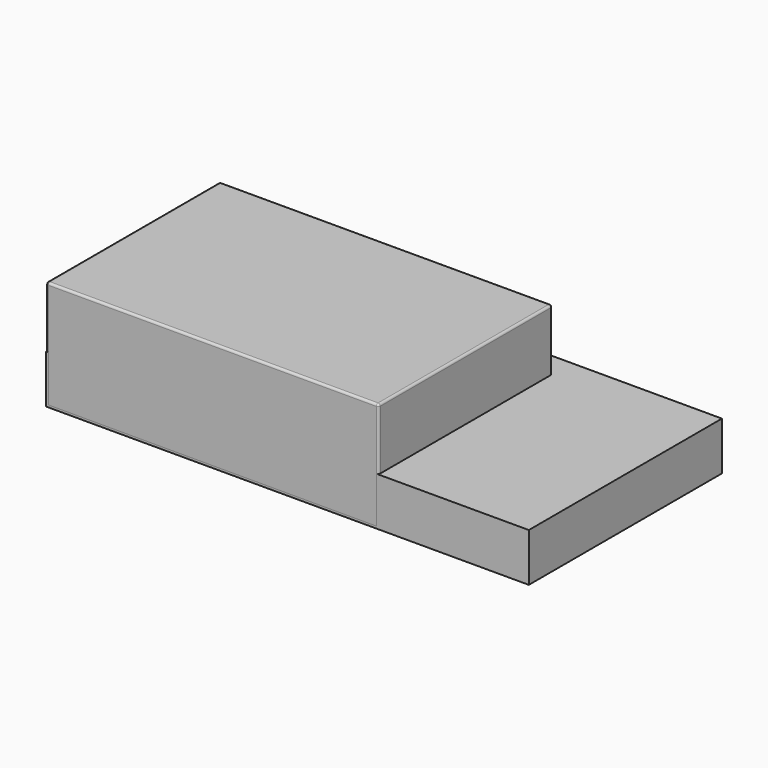
from build123d import *

# Parameters (mm, degrees)
BOX_W        = 440
BOX_H        = 220
BOX_DEPTH    = 44
BOX001_W     = 283
BOX001_H     = 178
BOX001_DEPTH = 44
BOX003_W     = 283
BOX003_H     = 178
BOX003_DEPTH = 44
BOX002_W     = 303
BOX002_H     = 198
BOX002_DEPTH = 100
FILLET_R     = 2


with BuildPart() as obj1:
    # Box → Box (new body)
    with BuildSketch(Plane.XY):
        with Locations((220, 110)):
            Rectangle(BOX_W, BOX_H)
    extrude(amount=BOX_DEPTH)


with BuildPart() as obj2:
    # Box001 → Box001 (new body)
    with BuildSketch(Plane(origin=(10, 10, 50), x_dir=(1, 0, 0), z_dir=(0, 0, 1))):
        with Locations((141.5, 89)):
            Rectangle(BOX001_W, BOX001_H)
    extrude(amount=BOX001_DEPTH)


with BuildPart() as obj3:
    # Box003 → Box003 (new body)
    with BuildSketch(Plane(origin=(10, 10, 0), x_dir=(1, 0, 0), z_dir=(0, 0, 1))):
        with Locations((141.5, 89)):
            Rectangle(BOX003_W, BOX003_H)
    extrude(amount=BOX003_DEPTH)


with BuildPart() as fillet_body:
    # Box002 → Box002 (new body)
    with BuildSketch(Plane.XY):
        with Locations((151.5, 99)):
            Rectangle(BOX002_W, BOX002_H)
    extrude(amount=BOX002_DEPTH)

    # Fillet
    fillet_edges = [fillet_body.edges().sort_by_distance(p)[0] for p in [
        (0, 0, 50),
        (0, 99, 100),
        (0, 198, 50),
        (0, 99, 0),
        (303, 0, 50),
        (303, 99, 100),
        (303, 198, 50),
        (303, 99, 0),
        (151.5, 0, 0),
        (151.5, 0, 100),
        (151.5, 198, 0),
        (151.5, 198, 100),
    ]]
    fillet(fillet_edges, radius=FILLET_R)


solid = Compound([obj1.part, obj2.part, obj3.part, fillet_body.part])
